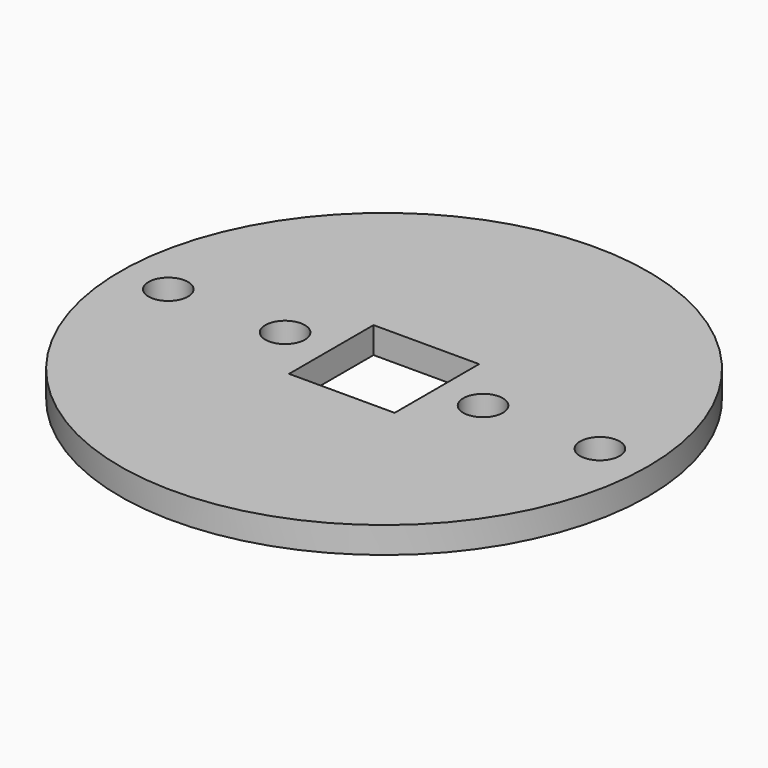
from build123d import *

# Parameters (mm, degrees)
F0_R     = 20
F0_W     = 22
F0_H     = 22
F0_R_2   = 10
F0_R_3   = 1.5
F0_W_2   = 8
F0_H_2   = 8
F1_DEPTH = 2
F2_D     = 3
F2_DEPTH = 25
F2_TIP   = 0.9012909285


with BuildPart() as f1:
    # F0 (on Top) → F1 (new body)
    with BuildSketch(Plane.XY):
        Circle(F0_R)
        Rectangle(F0_W, F0_H, mode=Mode.SUBTRACT)
        Rectangle(F0_W, F0_H)
        Circle(F0_R_2, mode=Mode.SUBTRACT)
        Circle(F0_R_2)
        with Locations((-7.5, 0)):
            Circle(F0_R_3, mode=Mode.SUBTRACT)
        Rectangle(F0_W_2, F0_H_2, mode=Mode.SUBTRACT)
        with Locations((7.5, 0)):
            Circle(F0_R_3, mode=Mode.SUBTRACT)
    extrude(amount=F1_DEPTH)

    # F2
    with Locations(Plane(origin=(0, 0, 0), x_dir=(1, 0, 0), z_dir=(0, 0, -1))):
        with Locations((-16.35, 0), (16.35, 0)):
            Hole(F2_D / 2, depth=F2_DEPTH)
            with Locations((0, 0, -(F2_DEPTH + F2_TIP / 2))):  # 118° drill point
                Cone(0, F2_D / 2, F2_TIP, mode=Mode.SUBTRACT)


solid = f1.part
